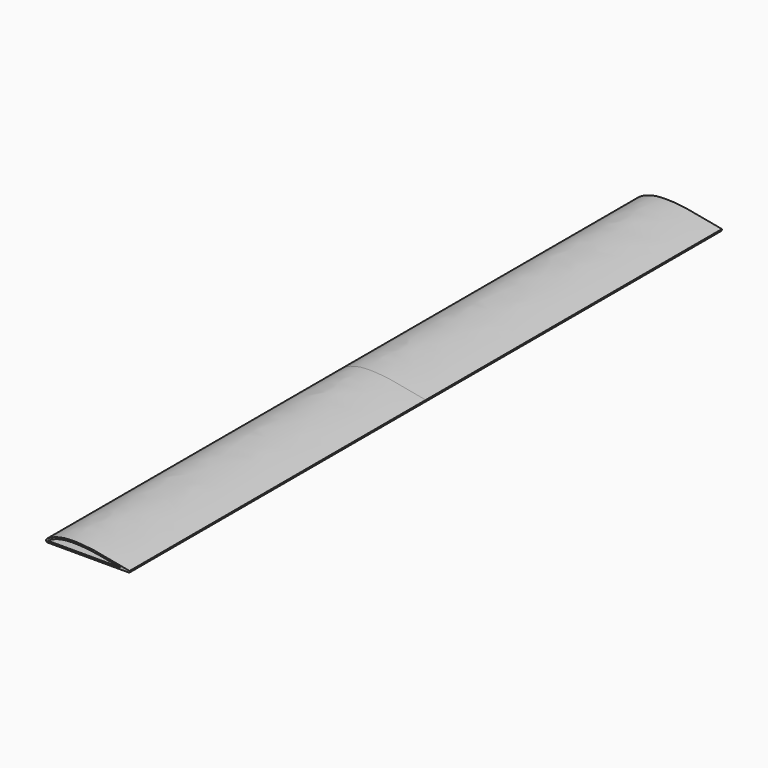
from build123d import *

# Parameters (mm, degrees)
F1_DEPTH = 650


with BuildPart() as f1:
    # F0 (on Front) → F1 (new body, symmetric)
    with BuildSketch(Plane.XZ):
        with BuildLine():
            Line((0, -3), (0, 0))
            add(Edge.make_bspline(
                [(0, 0), (4.976529694, 2.9294076189), (8.0464472722, 4.9259260486), (25.0135125986, 11.1897274422), (45.0405023319, 11.6111564879), (56, 11.0321840118)],
                knots=[0, 0, 0, 0, 0.1482248323, 0.3426833242, 0.5601257706, 0.5601257706, 0.5601257706, 0.5601257706], degree=3))
            add(Edge.make_bspline(
                [(56, 11.0321840118), (60.3082527523, 10.8045860107), (82.7866761058, 8.9960203801), (104.0881206975, 4.4945010838), (127, 0)],
                knots=[0.5601257706, 0.5601257706, 0.5601257706, 0.5601257706, 0.6456038689, 1, 1, 1, 1], degree=3))
            Line((127, 0), (143, -3))
            Line((143, -3), (143.5528656052, -0.0513834392))
            add(Edge.make_bspline(
                [(143.5528656052, -0.0513834392), (104.6170089124, 7.519433537), (76.2328083292, 13.6355347634), (27.5722921413, 15.5947670577), (5.44223627, 6.8844900424), (5.8778529614, 6.8576816047), (-1.5, 2.5980762114)],
                knots=[0, 0, 0, 0, 0.3798438193, 0.6693894984, 0.8575358074, 1, 1, 1, 1], degree=3))
            ThreePointArc((-1.5, 2.5980762114), (-2.7716385975, 1.1480502971), (-2.8977774789, -0.7764571353))
            ThreePointArc((-2.8977774789, -0.7764571353), (-1.826284287, -2.3800600209), (0, -3))
        make_face()
        Polygon((9, 0), (0, 0), (0, -3), (143, -3), (127, 0), (102, 0), (69, 0), (60, 0), (56, 0), (51, 0), (26, 0), align=None)
    extrude(amount=F1_DEPTH, both=True)


solid = f1.part
